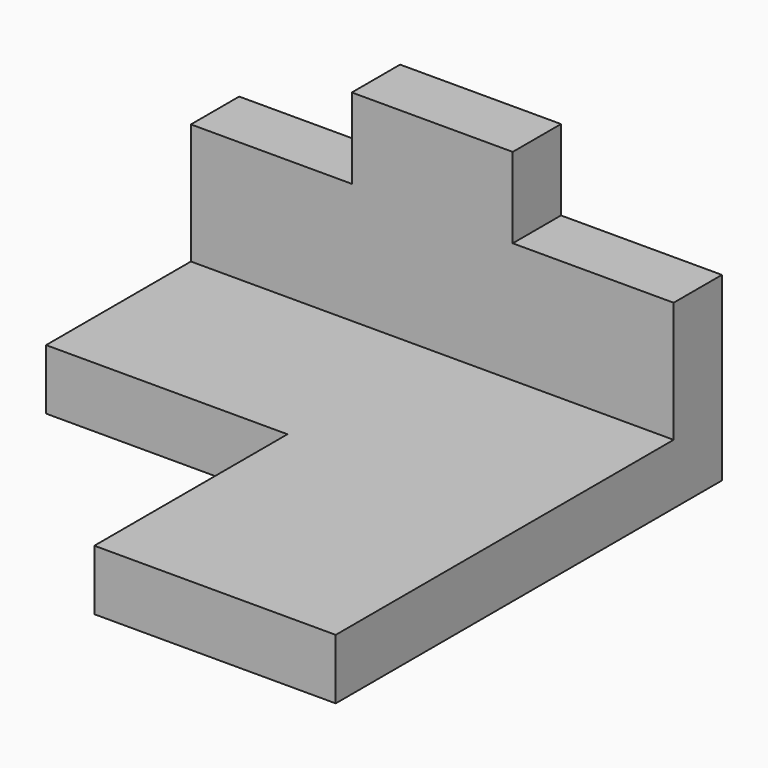
from build123d import *

# Parameters (mm, degrees)
F1_DEPTH = 15
F3_DEPTH = 15


with BuildPart() as f1:
    # F0 (on Top) → F1 (new body)
    with BuildSketch(Plane.XY):
        Polygon((0, -120), (0, 0), (-120, 0), (-120, -60), (-60, -60), (-60, -120), align=None)
    extrude(amount=F1_DEPTH)

    # F2 (on Front) → F3 (join)
    with BuildSketch(Plane.XZ):
        Polygon((-120, 0), (0, 0), (0, 45), (-40, 45), (-40, 65), (-80, 65), (-80, 45), (-120, 45), align=None)
    extrude(amount=F3_DEPTH)


solid = f1.part
